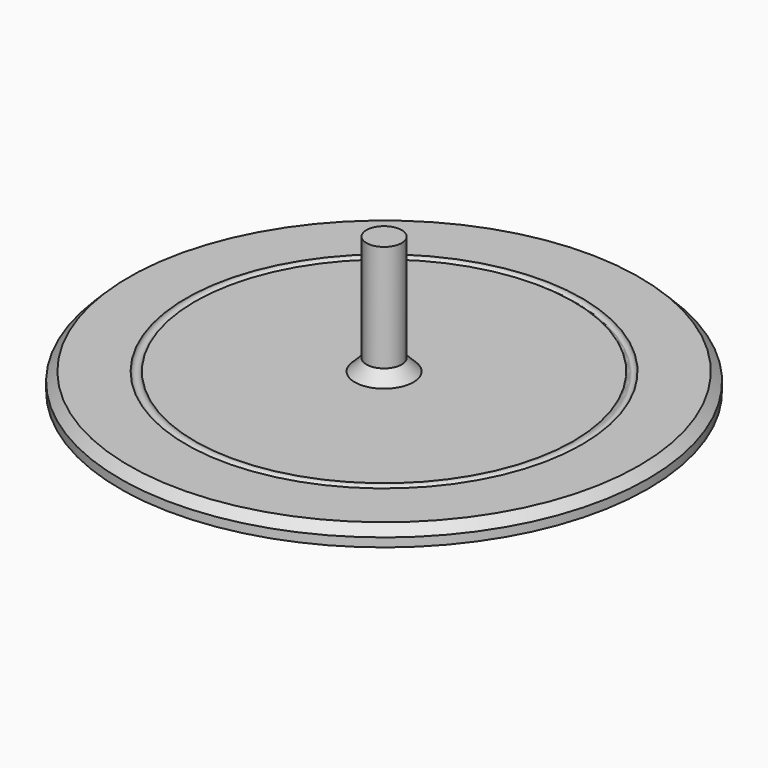
from build123d import *

# Parameters (mm, degrees)
F0_W    = 3
F0_H    = 20.235256
F2_SIZE = 1.5
F3_SIZE = 2


with BuildPart() as f1:
    # F0 (on Front) → F1 (revolve)
    with BuildSketch(Plane.XZ):
        with BuildLine():
            Line((0, 3), (0, 0))
            Line((0, 0), (45, 0))
            Line((45, 0), (45, 3))
            Line((45, 3), (33.75, 3))
            ThreePointArc((33.75, 3), (33, 2.25), (32.25, 3))
            Line((32.25, 3), (3, 3))
            Line((3, 3), (0, 3))
        make_face()
        with Locations((1.5, 13.117628)):
            Rectangle(F0_W, F0_H)
    revolve(axis=Axis((0, 0, 18.496849), (0, 0, 1)))

    # F2
    f2_edges = [f1.edges().sort_by_distance(p)[0] for p in [
        (-45, 0, 3),
    ]]
    chamfer(f2_edges, length=F2_SIZE)

    # F3
    f3_edges = [f1.edges().sort_by_distance(p)[0] for p in [
        (-3, 0, 3),
    ]]
    chamfer(f3_edges, length=F3_SIZE)


solid = f1.part
